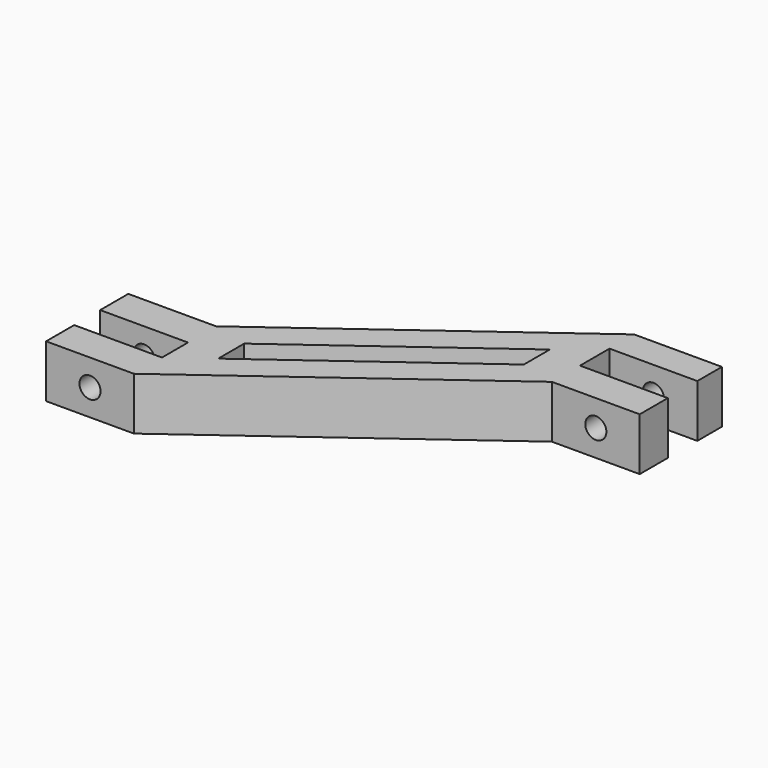
from build123d import *

# Parameters (mm, degrees)
PAD_DEPTH    = 6
SKETCH001_R  = 1.2
POCKET_DEPTH = 50


with BuildPart() as part:
    # Sketch → Pad (new body)
    with BuildSketch(Plane.XY):
        Polygon((-5, 11.7), (5, 11.7), (35, 33.7), (45, 33.7), (45, 30.2), (35, 30.2), (35, 26), (45, 26), (45, 22), (35, 22), (5, 0), (-5, 0), (-5, 4), (5, 4), (5, 7.7), (-5, 7.7), align=None)
        Polygon((9.032025, 10.656818), (30.967975, 26.743182), (30.967975, 23.043182), (9.032025, 6.956818), align=None, mode=Mode.SUBTRACT)
    extrude(amount=PAD_DEPTH)

    # Sketch001 (on Face12 of Pad) → Pocket (cut)
    with BuildSketch(Plane.XZ):
        with Locations((0, 3)):
            Circle(SKETCH001_R)
        with Locations((40, 3)):
            Circle(SKETCH001_R)
    extrude(amount=-POCKET_DEPTH, mode=Mode.SUBTRACT)


solid = part.part
